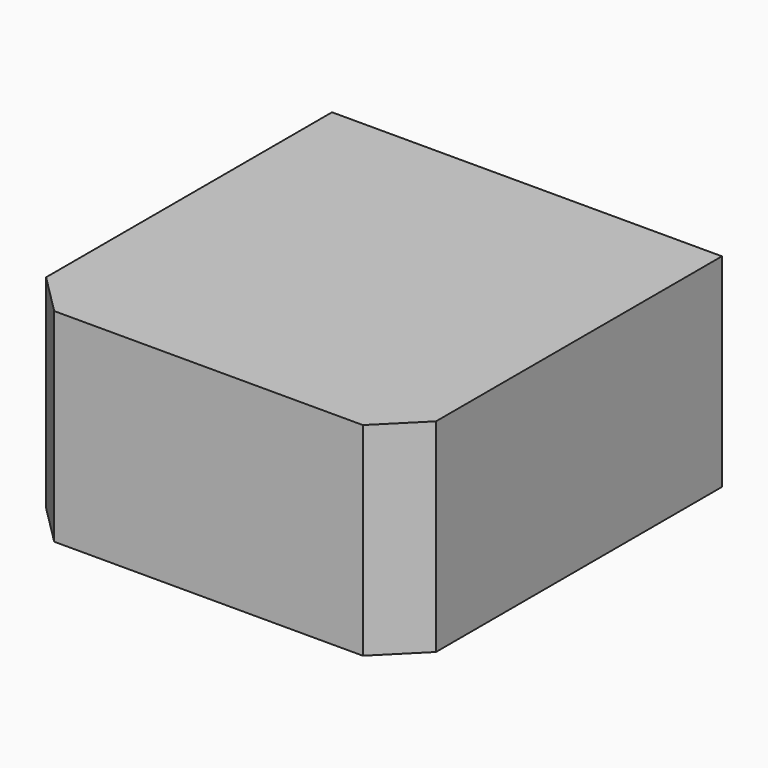
from build123d import *

# Parameters (mm, degrees)
F0_W     = 48
F0_H     = 49
F1_DEPTH = 25
F2_SIZE  = 5


with BuildPart() as f1:
    # F0 (on Top) → F1 (new body)
    with BuildSketch(Plane.XY):
        with Locations((-9.14264, 6.978397)):
            Rectangle(F0_W, F0_H)
    extrude(amount=F1_DEPTH)

    # F2
    f2_edges = [f1.edges().sort_by_distance(p)[0] for p in [
        (-33.14264, -17.521603, 12.5),
        (14.85736, -17.521603, 12.5),
    ]]
    chamfer(f2_edges, length=F2_SIZE)


solid = f1.part
